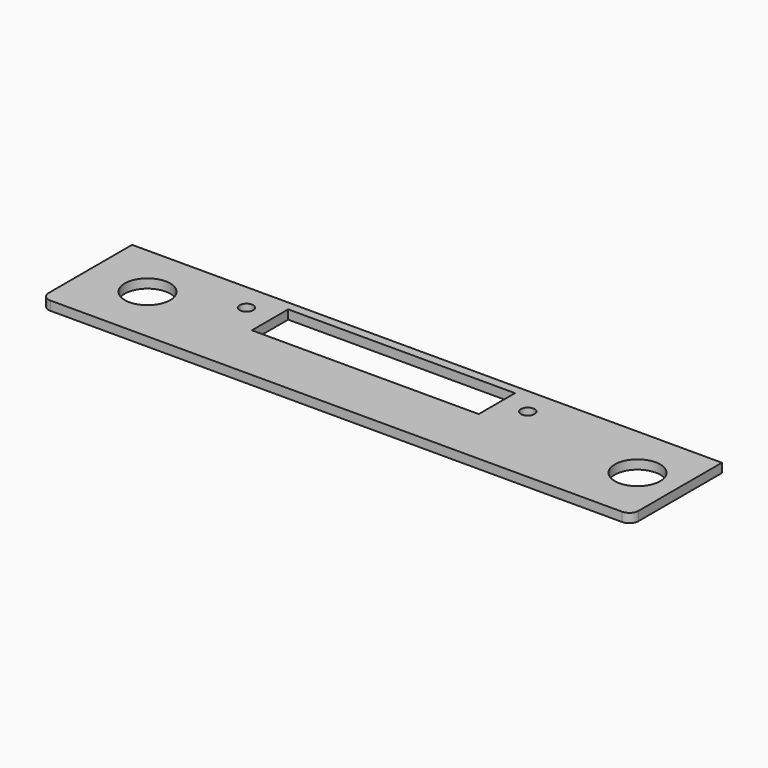
from build123d import *

# Parameters (mm, degrees)
SKETCH_W        = 130
SKETCH_H        = 25
PAD_DEPTH       = 2
SKETCH001_R     = 5
SKETCH001_W     = 50
SKETCH001_H     = 10
POCKET_DEPTH    = 2
SKETCH002_R     = 3
SKETCH002_R_2   = 1.5
PAD001_DEPTH    = 2
SKETCH003_R     = 1.5
POCKET001_DEPTH = 2
FILLET_R        = 2
FILLET001_R     = 2


with BuildPart() as part:
    # Sketch → Pad (new body)
    with BuildSketch(Plane.XY):
        with Locations((65, 12.5)):
            Rectangle(SKETCH_W, SKETCH_H)
    extrude(amount=PAD_DEPTH)

    # Sketch001 → Pocket (cut)
    with BuildSketch(Plane.XY.offset(2)):
        with Locations((13, 13)):
            Circle(SKETCH001_R)
        with Locations((121, 13)):
            Circle(SKETCH001_R)
        with Locations((61, 18)):
            Rectangle(SKETCH001_W, SKETCH001_H)
    extrude(amount=-POCKET_DEPTH, mode=Mode.SUBTRACT)

    # Sketch002 → Pad001 (new body)
    with BuildSketch(Plane(origin=(0, 0, 0), x_dir=(1, 0, 0), z_dir=(0, 0, -1))):
        with Locations((30, -19)):
            Circle(SKETCH002_R)
        with Locations((30, -19)):
            Circle(SKETCH002_R_2, mode=Mode.SUBTRACT)
        with Locations((92, -19)):
            Circle(SKETCH002_R)
        with Locations((92, -19)):
            Circle(SKETCH002_R_2, mode=Mode.SUBTRACT)
    extrude(amount=PAD001_DEPTH)

    # Sketch003 → Pocket001 (cut)
    with BuildSketch(Plane.XY.offset(2)):
        with Locations((30, 19)):
            Circle(SKETCH003_R)
        with Locations((92, 19)):
            Circle(SKETCH003_R)
    extrude(amount=-POCKET001_DEPTH, mode=Mode.SUBTRACT)

    # Fillet
    fillet_edges = [part.edges().sort_by_distance(p)[0] for p in [
        (0, 0, 1),
    ]]
    fillet(fillet_edges, radius=FILLET_R)

    # Fillet001
    fillet001_edges = [part.edges().sort_by_distance(p)[0] for p in [
        (130, 0, 1),
    ]]
    fillet(fillet001_edges, radius=FILLET001_R)


solid = part.part
